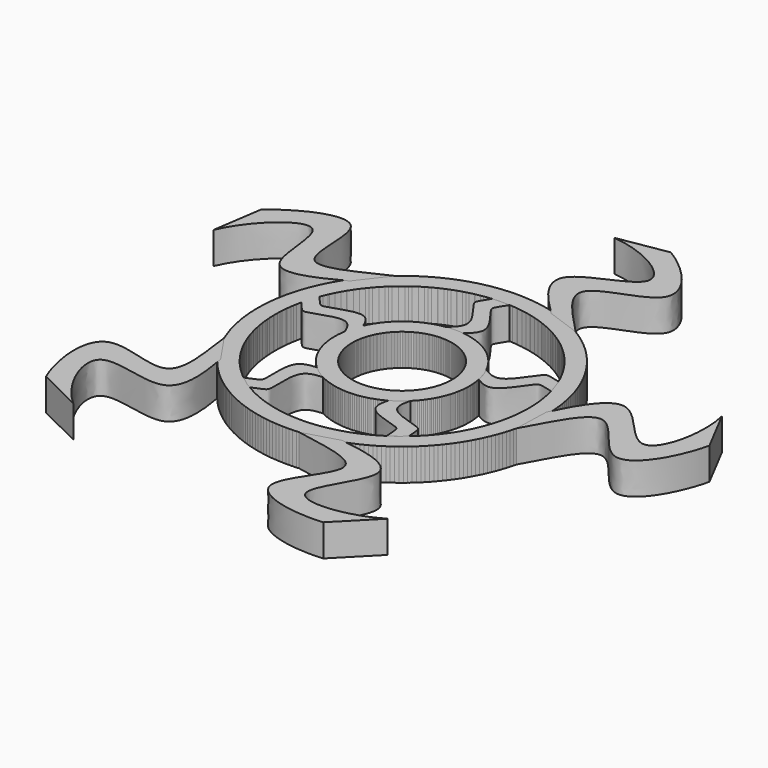
from build123d import *

# Parameters (mm, degrees)
F0_R     = 14.8082
F0_R_2   = 10.9982
F1_DEPTH = 7.0104
F0_R_3   = 31.75
F0_R_4   = 27.94
F3_DEPTH = 7.0104
F4_COUNT = 5
F6_DEPTH = 7.0104
F7_COUNT = 5


with BuildPart() as f1:
    # F0 (on Top) → F1 (new body)
    with BuildSketch(Plane.XY):
        Circle(F0_R)
        Circle(F0_R_2, mode=Mode.SUBTRACT)
    extrude(amount=F1_DEPTH)



with BuildPart() as f1b:
    # F0 (on Top) → F1, piece 2 (new body)
    with BuildSketch(Plane.XY):
        Circle(F0_R_3)
        Circle(F0_R_4, mode=Mode.SUBTRACT)
    extrude(amount=F1_DEPTH)


with BuildPart() as f1_1:
    add(f1.part)

    add(f1b.part)  # F3 merges F1b
    # F2 (on Top) → F3 (join, through all)
    with BuildSketch(Plane.XY):
        with BuildLine():
            Line((-2.3825669196, 14.4247021526), (1.3517104089, 14.4247021526))
            add(Edge.make_bspline(
                [(1.3517104089, 14.4247021526), (2.6586870076, 15.522725456), (5.623493321, 18.0135324264), (-0.4300535845, 24.3318627006), (-0.084603778, 25.6452476692), (1.3164966748, 27.7916780403), (2.2369753569, 29.2018149048)],
                knots=[0, 0, 0, 0, 0.2668422315, 0.60531729, 0.7407059429, 1, 1, 1, 1], degree=3))
            Line((2.2369753569, 29.2018149048), (-1.4973019715, 29.2018149048))
            add(Edge.make_bspline(
                [(-2.3825669196, 14.4247021526), (-1.0755903209, 15.522725456), (1.8892159925, 18.0135324264), (-4.164330913, 24.3318627006), (-3.8188811065, 25.6452476692), (-2.4177806537, 27.7916780403), (-1.4973019715, 29.2018149048)],
                knots=[0, 0, 0, 0, 0.2668422315, 0.60531729, 0.7407059429, 1, 1, 1, 1], degree=3))
        make_face()
    extrude(amount=F3_DEPTH)


with BuildPart() as f4_1:
    # F4: instance of F1
    add(f1_1.part.rotate(Axis((0, 0, 0), (0, 0, -1)), 1 * 360 / F4_COUNT))


with BuildPart() as f4_2:
    # F4: instance of F1
    add(f1_1.part.rotate(Axis((0, 0, 0), (0, 0, -1)), 2 * 360 / F4_COUNT))


with BuildPart() as f4_3:
    # F4: instance of F1
    add(f1_1.part.rotate(Axis((0, 0, 0), (0, 0, -1)), 3 * 360 / F4_COUNT))


with BuildPart() as f4_4:
    # F4: instance of F1
    add(f1_1.part.rotate(Axis((0, 0, 0), (0, 0, -1)), 4 * 360 / F4_COUNT))


with BuildPart() as f6:
    # F5 (on Top) → F6 (new body, through all)
    with BuildSketch(Plane.XY):
        with BuildLine():
            add(Edge.make_bspline(
                [(-25.6515163928, 17.711834982), (-30.3625964614, 15.2187237007), (-42.706965198, 9.0918692454), (-38.9681132679, 36.7774070779), (-52.8788305819, 24.7336141765), (-55.811021477, 17.8936105222)],
                knots=[0, 0, 0, 0, 0.3173724981, 0.6447903927, 1, 1, 1, 1], degree=3))
            Line((-25.6515163928, 17.711834982), (-20.7792595029, 24.0171067417))
            add(Edge.make_bspline(
                [(-20.7792595029, 24.0171067417), (-25.855747224, 21.7716283268), (-39.5559880428, 13.464733795), (-33.782270727, 40.4285221841), (-49.2469964928, 33.2218306643), (-54.1685447097, 28.8893636316)],
                knots=[0, 0, 0, 0, 0.3307287428, 0.6529127063, 1, 1, 1, 1], degree=3))
            Line((-54.1685447097, 28.8893636316), (-55.811021477, 17.8936105222))
        make_face()
    extrude(amount=F6_DEPTH)


with BuildPart() as f7_1:
    # F7: instance of F6
    add(f6.part.rotate(Axis((0, 0, 0), (0, 0, 1)), 1 * 360 / F7_COUNT))


with BuildPart() as f7_2:
    # F7: instance of F6
    add(f6.part.rotate(Axis((0, 0, 0), (0, 0, 1)), 2 * 360 / F7_COUNT))


with BuildPart() as f7_3:
    # F7: instance of F6
    add(f6.part.rotate(Axis((0, 0, 0), (0, 0, 1)), 3 * 360 / F7_COUNT))


with BuildPart() as f7_4:
    # F7: instance of F6
    add(f6.part.rotate(Axis((0, 0, 0), (0, 0, 1)), 4 * 360 / F7_COUNT))


solid = Compound([f1_1.part, f4_1.part, f4_2.part, f4_3.part, f4_4.part, f6.part, f7_1.part, f7_2.part, f7_3.part, f7_4.part])
